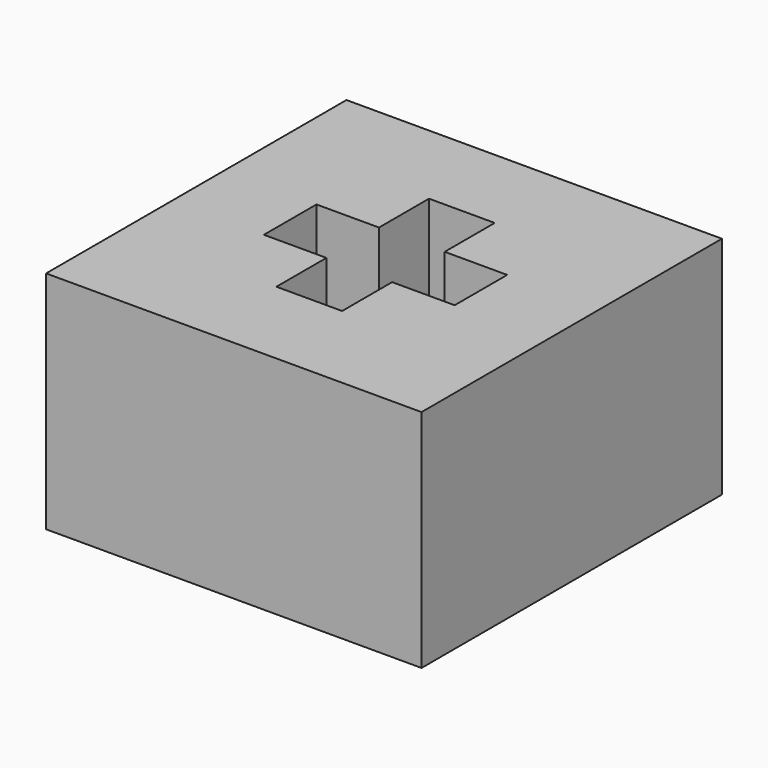
from build123d import *

# Parameters (mm, degrees)
F0_W     = 200
F0_H     = 200
F1_DEPTH = 120
F2_W     = 35
F2_H     = 33.3
F2_W_2   = 33.3
F2_H_2   = 35
F3_DEPTH = 50


with BuildPart() as f1:
    # F0 (on Top) → F1 (new body)
    with BuildSketch(Plane.XY):
        with Locations((0.1801989079, -1.2571020722)):
            Rectangle(F0_W, F0_H)
    extrude(amount=F1_DEPTH)

    # F2 (on face) → F3 (cut)
    with BuildSketch(Plane.XY.offset(120)):
        with Locations((0, 34.15)):
            Rectangle(F2_W, F2_H)
        with Locations((34.15, 0)):
            Rectangle(F2_W_2, F2_H_2)
        Rectangle(F2_W, F2_H_2)
        with Locations((-34.15, 0)):
            Rectangle(F2_W_2, F2_H_2)
        with Locations((0, -34.15)):
            Rectangle(F2_W, F2_H)
    extrude(amount=-F3_DEPTH, mode=Mode.SUBTRACT)


solid = f1.part
